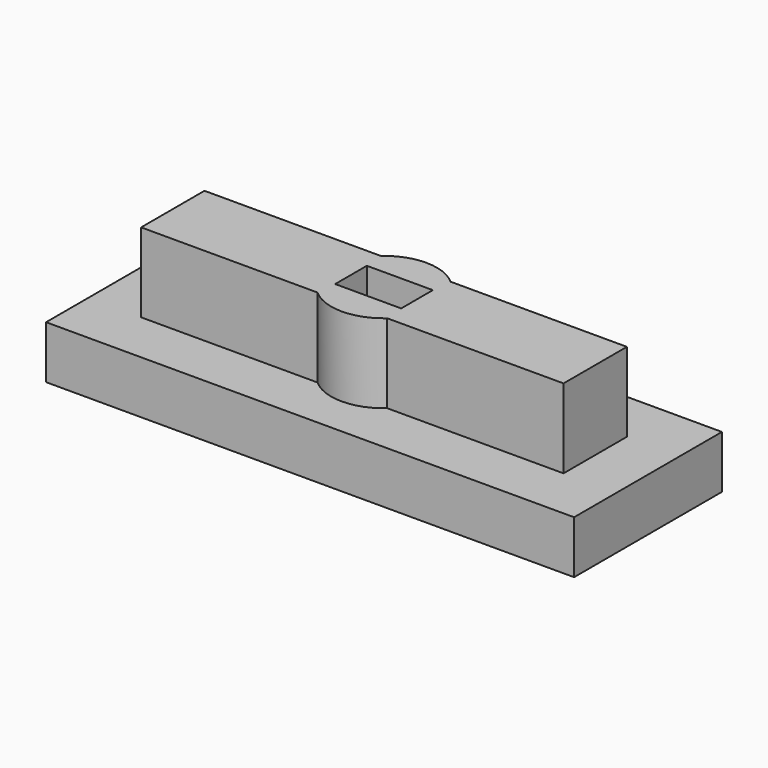
from build123d import *

# Parameters (mm, degrees)
BOX001_W       = 2.5
BOX001_H       = 1.5
BOX001_DEPTH   = 10
BOX_W          = 16
BOX_H          = 3
BOX_DEPTH      = 5
CYLINDER_R     = 2
CYLINDER_DEPTH = 5
BOX002_W       = 20
BOX002_H       = 7
BOX002_DEPTH   = 2


with BuildPart() as cube001:
    # Box001 → Box001 (new body)
    with BuildSketch(Plane(origin=(-1.25, -0.75, 0), x_dir=(1, 0, 0), z_dir=(0, 0, 1))):
        with Locations((1.25, 0.75)):
            Rectangle(BOX001_W, BOX001_H)
    extrude(amount=BOX001_DEPTH)


with BuildPart() as cube:
    # Box → Box (new body)
    with BuildSketch(Plane(origin=(-8, -1.5, 0), x_dir=(1, 0, 0), z_dir=(0, 0, 1))):
        with Locations((8, 1.5)):
            Rectangle(BOX_W, BOX_H)
    extrude(amount=BOX_DEPTH)


with BuildPart() as fusion:
    # Cylinder → Cylinder (new body)
    with BuildSketch(Plane.XY):
        Circle(CYLINDER_R)
    extrude(amount=CYLINDER_DEPTH)

    # Fusion: union Cube
    add(cube.part)


with BuildPart() as cut:
    # Box002 → Box002 (new body)
    with BuildSketch(Plane(origin=(-10, -3.5, 0), x_dir=(1, 0, 0), z_dir=(0, 0, 1))):
        with Locations((10, 3.5)):
            Rectangle(BOX002_W, BOX002_H)
    extrude(amount=BOX002_DEPTH)

    # Fusion001: union Fusion
    add(fusion.part)

    # Cut: cut Cube001
    add(cube001.part, mode=Mode.SUBTRACT)


solid = cut.part
